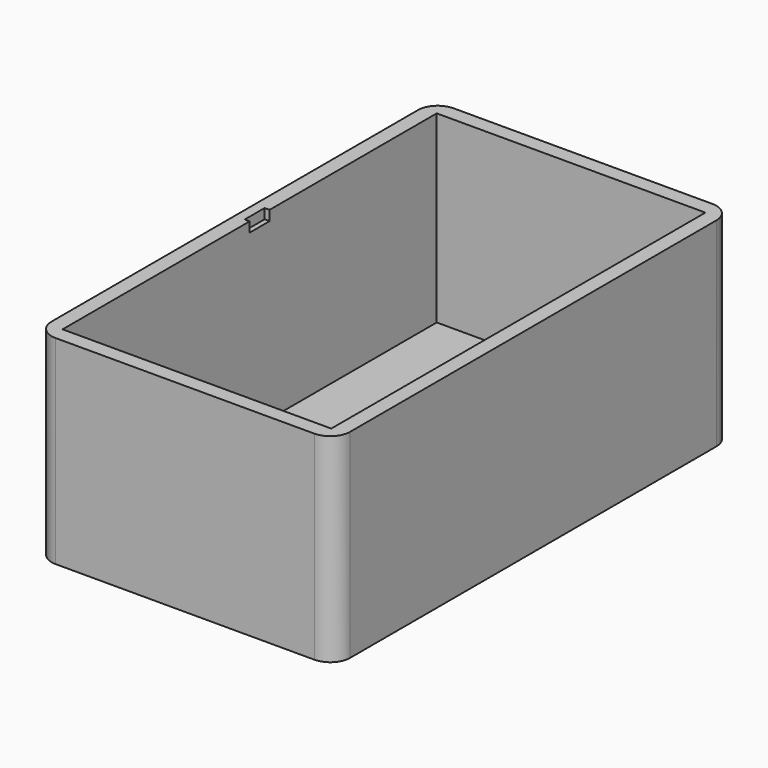
from build123d import *

# Parameters (mm, degrees)
SKETCH_W     = 60
SKETCH_H     = 100
PAD_DEPTH    = 40
THICKNESS_T  = -3
FILLET_R     = 4
SKETCH002_W  = 1
SKETCH002_H  = 2
POCKET_DEPTH = 5


with BuildPart() as part:
    # Sketch → Pad (new body)
    with BuildSketch(Plane.XY):
        Rectangle(SKETCH_W, SKETCH_H)
    extrude(amount=-PAD_DEPTH)

    # Thickness
    thickness_openings = [part.faces().sort_by_distance(p)[0] for p in [
        (0, 0, 0),
    ]]
    offset(amount=THICKNESS_T, openings=thickness_openings, kind=Kind.INTERSECTION)

    # Fillet
    fillet_edges = [part.edges().sort_by_distance(p)[0] for p in [
        (30, -50, -20),
        (-30, -50, -20),
        (30, 50, -20),
        (-30, 50, -20),
    ]]
    fillet(fillet_edges, radius=FILLET_R)

    # Sketch002 → Pocket (cut)
    with BuildSketch(Plane.XZ):
        with Locations((-27.5, -1)):
            Rectangle(SKETCH002_W, SKETCH002_H)
    extrude(amount=-POCKET_DEPTH, mode=Mode.SUBTRACT)


solid = part.part
